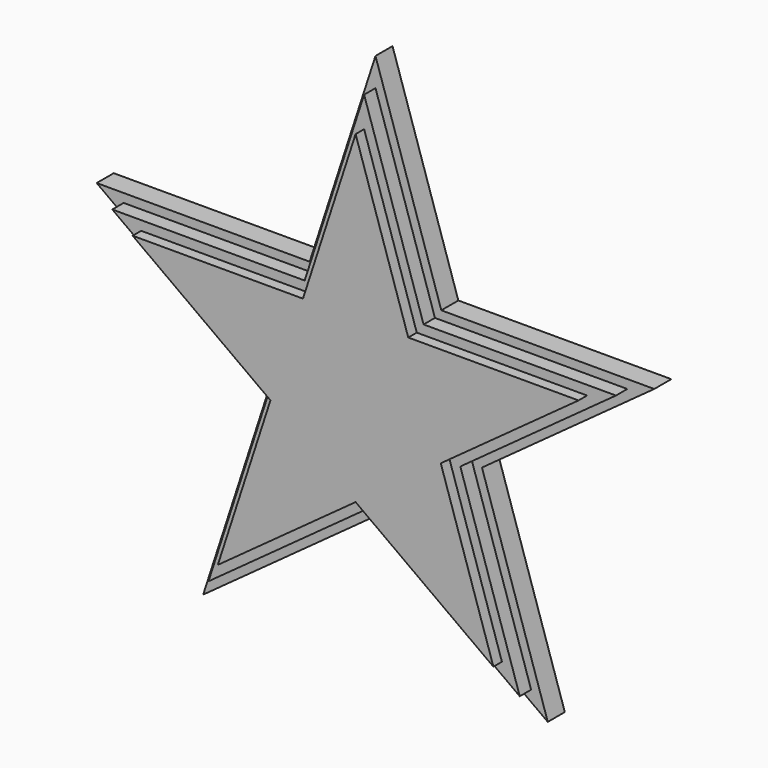
from build123d import *

# Parameters (mm, degrees)
F1_DEPTH = 3.81
F3_DEPTH = 2.54
F5_DEPTH = 1.905


with BuildPart() as f1:
    # F0 (on Front) → F1 (new body)
    with BuildSketch(Plane.XZ):
        Polygon((-217.349024, 262.862362), (-255.449024, 262.862362), (-267.222571, 299.097615), (-278.996119, 262.862362), (-317.096119, 262.862362), (-286.272571, 240.467744), (-298.046119, 204.23249), (-267.222571, 226.627108), (-236.399024, 204.23249), (-248.172571, 240.467744), align=None)
    extrude(amount=F1_DEPTH)

    # F2 (on face) → F3 (join)
    with BuildSketch(Plane.XZ.offset(3.81)):
        Polygon((-239.378866, 208.333892), (-250.014215, 241.06613), (-222.17051, 261.295766), (-256.587222, 261.295766), (-267.222571, 294.028004), (-277.85792, 261.295766), (-312.274632, 261.295766), (-284.430927, 241.06613), (-295.066276, 208.333892), (-267.222571, 228.563528), align=None)
    extrude(amount=F3_DEPTH)

    # F4 (on face) → F5 (join)
    with BuildSketch(Plane.XZ.offset(6.35)):
        Polygon((-291.872742, 212.729414), (-267.222571, 230.638812), (-242.5724, 212.729414), (-251.987928, 241.707428), (-227.337756, 259.616826), (-257.807044, 259.616826), (-267.222571, 288.59484), (-276.638099, 259.616826), (-307.107386, 259.616826), (-282.457215, 241.707428), align=None)
    extrude(amount=F5_DEPTH)


solid = f1.part
